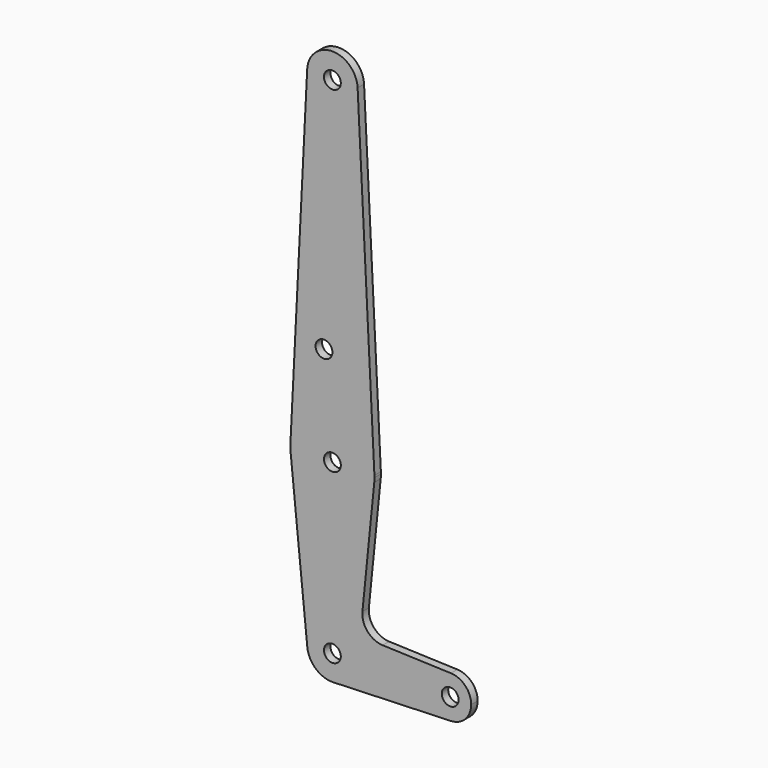
from build123d import *

# Parameters (mm, degrees)
F0_R     = 3.175
F1_DEPTH = 3.048


with BuildPart() as f1:
    # F0 (on Front) → F1 (new body)
    with BuildSketch(Plane.XZ):
        with BuildLine():
            ThreePointArc((44.733482, -7.932436), (50.162007, -5.511523), (52.3875, 0))
            ThreePointArc((52.3875, 0), (50.162007, 5.511523), (44.733482, 7.932436))
            ThreePointArc((44.733482, 7.932436), (36.5125, 0), (44.733482, -7.932436))
        make_face()
        with Locations((44.45, 0)):
            Circle(F0_R, mode=Mode.SUBTRACT)
        with BuildLine():
            ThreePointArc((44.733482, -7.932436), (36.5125, 0), (44.733482, 7.932436))
            Line((44.733482, 7.932436), (18.9676, 8.853234))
            ThreePointArc((18.9676, 8.853234), (13.2612, 11.571359), (11.341187, 17.593382))
            Line((11.341187, 17.593382), (15.795426, 61.9125))
            ThreePointArc((15.795426, 61.9125), (0, 47.625), (-15.795426, 61.9125))
            Line((-15.795426, 61.9125), (-9.477255, -0.9525))
            ThreePointArc((-9.477255, -0.9525), (-0.476848, 9.513056), (9.525, 0))
            ThreePointArc((9.525, 0), (6.854408, -6.613827), (0.340179, -9.518923))
            Line((0.340179, -9.518923), (44.733482, -7.932436))
        make_face()
        with BuildLine():
            ThreePointArc((-9.477255, -0.9525), (-6.262383, -7.17692), (0.340179, -9.518923))
            ThreePointArc((0.340179, -9.518923), (6.854408, -6.613827), (9.525, 0))
            ThreePointArc((9.525, 0), (-0.476848, 9.513056), (-9.477255, -0.9525))
        make_face()
        Circle(F0_R, mode=Mode.SUBTRACT)
        with BuildLine():
            ThreePointArc((-15.795426, 61.9125), (0, 47.625), (15.795426, 61.9125))
            ThreePointArc((15.795426, 61.9125), (15.855094, 62.705253), (15.875, 63.5))
            ThreePointArc((15.875, 63.5), (15.870035, 63.896999), (15.855144, 64.29375))
            ThreePointArc((15.855144, 64.29375), (0, 79.375), (-15.855144, 64.29375))
            ThreePointArc((-15.855144, 64.29375), (-15.87001, 63.102003), (-15.795426, 61.9125))
        make_face()
        with Locations((0, 63.5)):
            Circle(F0_R, mode=Mode.SUBTRACT)
        with BuildLine():
            Line((-9.513086, 190.97625), (-15.855144, 64.29375))
            ThreePointArc((-15.855144, 64.29375), (0, 79.375), (15.855144, 64.29375))
            Line((15.855144, 64.29375), (9.513086, 190.97625))
            ThreePointArc((9.513086, 190.97625), (9.522021, 190.738199), (9.525, 190.5))
            ThreePointArc((9.525, 190.5), (-0.238199, 180.977979), (-9.513086, 190.97625))
        make_face()
        with Locations((-3.175, 100.0252)):
            Circle(F0_R, mode=Mode.SUBTRACT)
        with BuildLine():
            ThreePointArc((9.513086, 190.97625), (0, 200.025), (-9.513086, 190.97625))
            ThreePointArc((-9.513086, 190.97625), (-0.238199, 180.977979), (9.525, 190.5))
            ThreePointArc((9.525, 190.5), (9.522021, 190.738199), (9.513086, 190.97625))
        make_face()
        with Locations((0, 190.5)):
            Circle(F0_R, mode=Mode.SUBTRACT)
    extrude(amount=F1_DEPTH)


solid = f1.part
